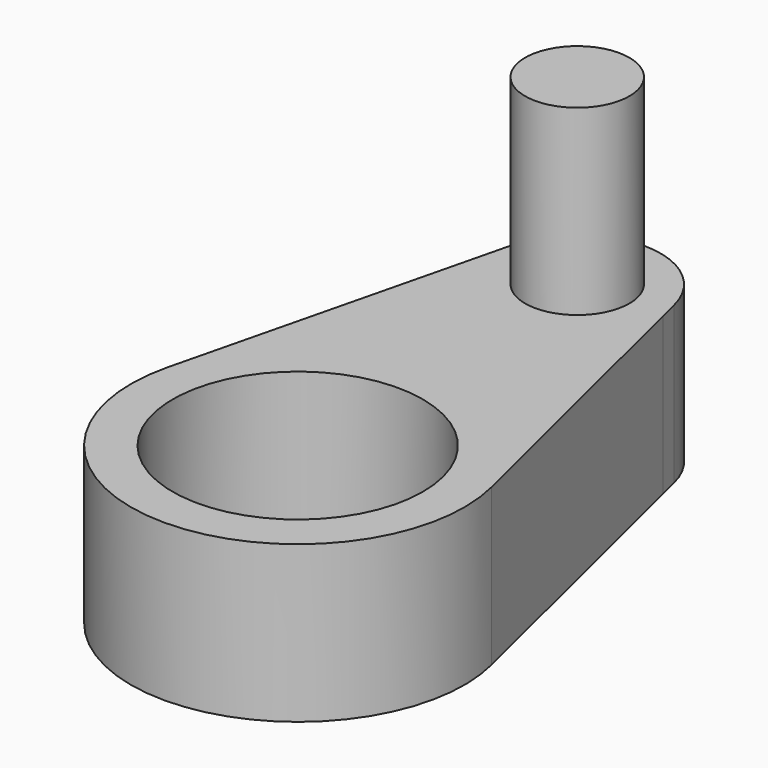
from build123d import *

# Parameters (mm, degrees)
F0_R     = 2.4
F0_R_2   = 1
F1_DEPTH = 3
F2_DEPTH = 6.5


with BuildPart() as f1:
    # F0 (on Top) → F1 (new body)
    with BuildSketch(Plane.XY):
        with BuildLine():
            Line((3.107415, 0.764179), (1.649973, 6.69064))
            ThreePointArc((1.649973, 6.69064), (1.522604, 6.064251), (1.166726, 5.533274))
            Line((1.166726, 5.533274), (0.353553, 4.720101))
            ThreePointArc((0.353553, 4.720101), (0, 4.573654), (-0.353553, 4.720101))
            Line((-0.353553, 4.720101), (-1.166726, 5.533274))
            ThreePointArc((-1.166726, 5.533274), (-1.522604, 6.064251), (-1.649973, 6.69064))
            Line((-1.649973, 6.69064), (-3.107415, 0.764179))
            ThreePointArc((-3.107415, 0.764179), (0, -3.2), (3.107415, 0.764179))
        make_face()
        Circle(F0_R, mode=Mode.SUBTRACT)
        with BuildLine():
            Line((1.649973, 6.69064), (1.553708, 7.08209))
            ThreePointArc((1.553708, 7.08209), (0, 8.3), (-1.553708, 7.08209))
            Line((-1.553708, 7.08209), (-1.649973, 6.69064))
            ThreePointArc((-1.649973, 6.69064), (-1.522604, 6.064251), (-1.166726, 5.533274))
            Line((-1.166726, 5.533274), (-0.353553, 4.720101))
            ThreePointArc((-0.353553, 4.720101), (0, 4.573654), (0.353553, 4.720101))
            Line((0.353553, 4.720101), (1.166726, 5.533274))
            ThreePointArc((1.166726, 5.533274), (1.522604, 6.064251), (1.649973, 6.69064))
        make_face()
        with Locations((0, 6.7)):
            Circle(F0_R_2, mode=Mode.SUBTRACT)
    extrude(amount=F1_DEPTH)

    # F0 (on Top) → F2 (join)
    with BuildSketch(Plane.XY):
        with Locations((0, 6.7)):
            Circle(F0_R_2)
    extrude(amount=F2_DEPTH)


solid = f1.part
